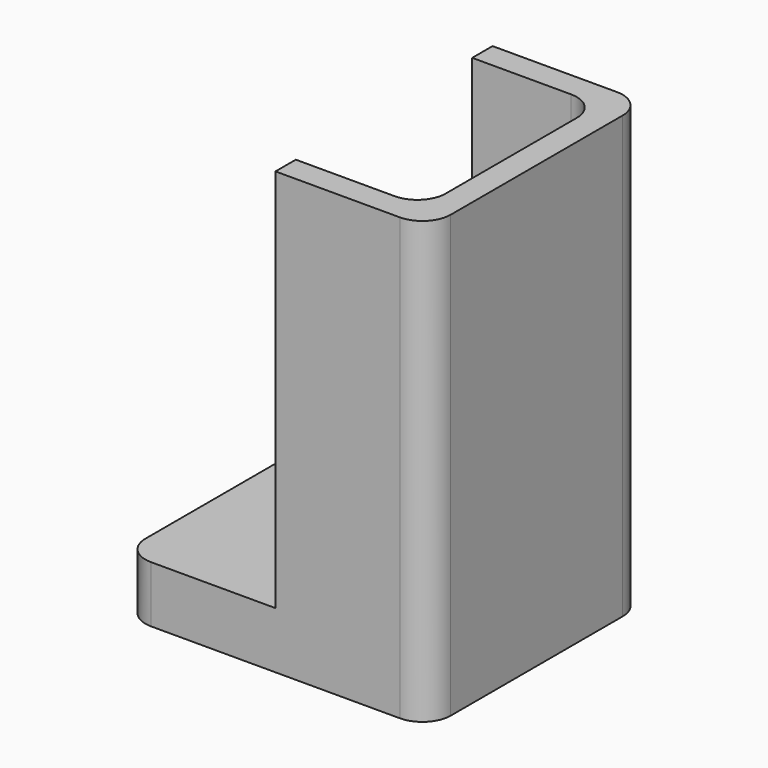
from build123d import *

# Parameters (mm, degrees)
F1_DEPTH = 10
F2_DEPTH = 68


with BuildPart() as f1:
    # F0 (on Top) → F1 (new body)
    with BuildSketch(Plane.XY):
        with BuildLine():
            Line((22.5, 0), (5, 0))
            ThreePointArc((5, 0), (1.4644660941, 1.4644660941), (0, 5))
            Line((0, 5), (0, 34))
            ThreePointArc((0, 34), (1.4644660941, 37.5355339059), (5, 39))
            Line((5, 39), (22.5, 39))
            Line((22.5, 39), (22.5, 43.5))
            Line((22.5, 43.5), (0.5, 43.5))
            ThreePointArc((0.5, 43.5), (-3.0355339059, 42.0355339059), (-4.5, 38.5))
            Line((-4.5, 38.5), (-4.5, 0.5))
            ThreePointArc((-4.5, 0.5), (-3.0355339059, -3.0355339059), (0.5, -4.5))
            Line((0.5, -4.5), (22.5, -4.5))
            Line((22.5, -4.5), (22.5, 0))
        make_face()
        with BuildLine():
            Line((40, 0), (22.5, 0))
            Line((22.5, 0), (22.5, -4.5))
            Line((22.5, -4.5), (44.5, -4.5))
            ThreePointArc((44.5, -4.5), (48.0355339059, -3.0355339059), (49.5, 0.5))
            Line((49.5, 0.5), (49.5, 38.5))
            ThreePointArc((49.5, 38.5), (48.0355339059, 42.0355339059), (44.5, 43.5))
            Line((44.5, 43.5), (22.5, 43.5))
            Line((22.5, 43.5), (22.5, 39))
            Line((22.5, 39), (40, 39))
            ThreePointArc((40, 39), (43.5355339059, 37.5355339059), (45, 34))
            Line((45, 34), (45, 5))
            ThreePointArc((45, 5), (43.5355339059, 1.4644660941), (40, 0))
        make_face()
        with BuildLine():
            ThreePointArc((0, 5), (1.4644660941, 1.4644660941), (5, 0))
            Line((5, 0), (22.5, 0))
            Line((22.5, 0), (40, 0))
            ThreePointArc((40, 0), (43.5355339059, 1.4644660941), (45, 5))
            Line((45, 5), (45, 34))
            ThreePointArc((45, 34), (43.5355339059, 37.5355339059), (40, 39))
            Line((40, 39), (22.5, 39))
            Line((22.5, 39), (5, 39))
            ThreePointArc((5, 39), (1.4644660941, 37.5355339059), (0, 34))
            Line((0, 34), (0, 5))
        make_face()
    extrude(amount=-F1_DEPTH)

    # F0 (on Top) → F2 (join)
    with BuildSketch(Plane.XY):
        with BuildLine():
            Line((40, 0), (22.5, 0))
            Line((22.5, 0), (22.5, -4.5))
            Line((22.5, -4.5), (44.5, -4.5))
            ThreePointArc((44.5, -4.5), (48.0355339059, -3.0355339059), (49.5, 0.5))
            Line((49.5, 0.5), (49.5, 38.5))
            ThreePointArc((49.5, 38.5), (48.0355339059, 42.0355339059), (44.5, 43.5))
            Line((44.5, 43.5), (22.5, 43.5))
            Line((22.5, 43.5), (22.5, 39))
            Line((22.5, 39), (40, 39))
            ThreePointArc((40, 39), (43.5355339059, 37.5355339059), (45, 34))
            Line((45, 34), (45, 5))
            ThreePointArc((45, 5), (43.5355339059, 1.4644660941), (40, 0))
        make_face()
    extrude(amount=F2_DEPTH)


solid = f1.part
